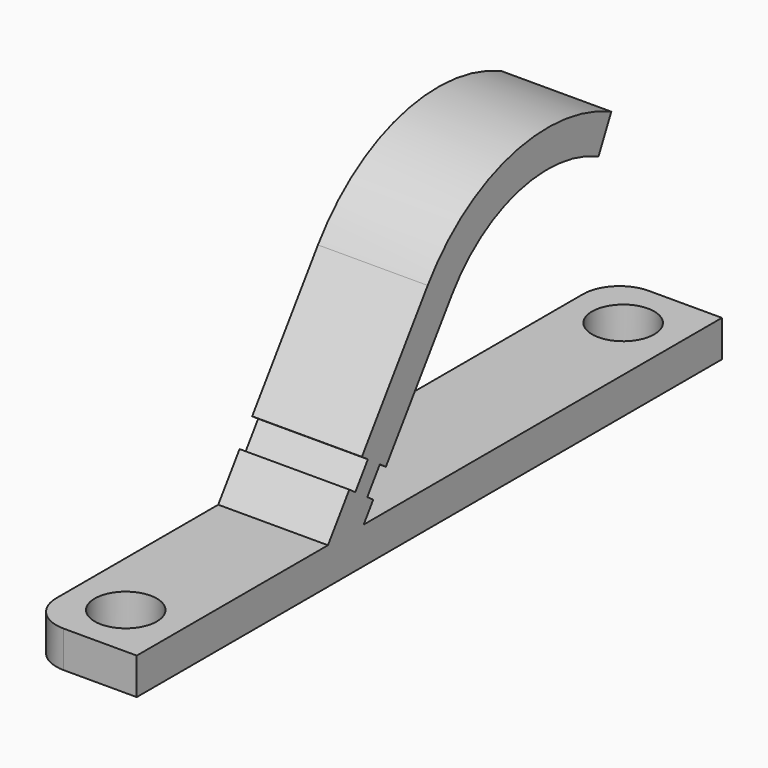
from build123d import *

# Parameters (mm, degrees)
SKETCH_W     = 6
SKETCH_H     = 40
SKETCH_R     = 1.7
PAD_DEPTH    = 2
FILLET_R     = 2
PAD001_DEPTH = 6
POCKET_DEPTH = 6.001


with BuildPart() as part:
    # Sketch → Pad (new body)
    with BuildSketch(Plane.XY):
        with Locations((0, 17)):
            Rectangle(SKETCH_W, SKETCH_H)
        Circle(SKETCH_R, mode=Mode.SUBTRACT)
        with Locations((0, 34)):
            Circle(SKETCH_R, mode=Mode.SUBTRACT)
    extrude(amount=PAD_DEPTH)

    # Fillet
    fillet_edges = [part.edges().sort_by_distance(p)[0] for p in [
        (-3, -3, 1),
        (-3, 37, 1),
    ]]
    fillet(fillet_edges, radius=FILLET_R)

    # Sketch001 → Pad001 (new body)
    with BuildSketch(Plane.YZ.offset(3)):
        with BuildLine():
            Line((8.669063, 0), (11.110612, 0))
            Line((11.110612, 0), (18.524817, 10.588582))
            ThreePointArc((28.565173, 13.2), (23.064315, 13.742406), (18.524817, 10.588582))
            Line((28.565173, 13.2), (29.436953, 15))
            ThreePointArc((29.436953, 15), (22.560894, 15.678011), (16.886524, 11.735751))
            Line((8.669063, 0), (16.886524, 11.735751))
        make_face()
    extrude(amount=-PAD001_DEPTH)

    # Sketch002 → Pocket (cut, through all)
    with BuildSketch(Plane.YZ.offset(3)):
        Polygon((11.938785, 3.797924), (10.300481, 4.945077), (11.160846, 6.173805), (12.79915, 5.026652), align=None)
        Polygon((13.618302, 4.453075), (12.757937, 3.224347), (13.577089, 2.650771), (14.437454, 3.879499), align=None)
    extrude(amount=-POCKET_DEPTH, mode=Mode.SUBTRACT)


solid = part.part
